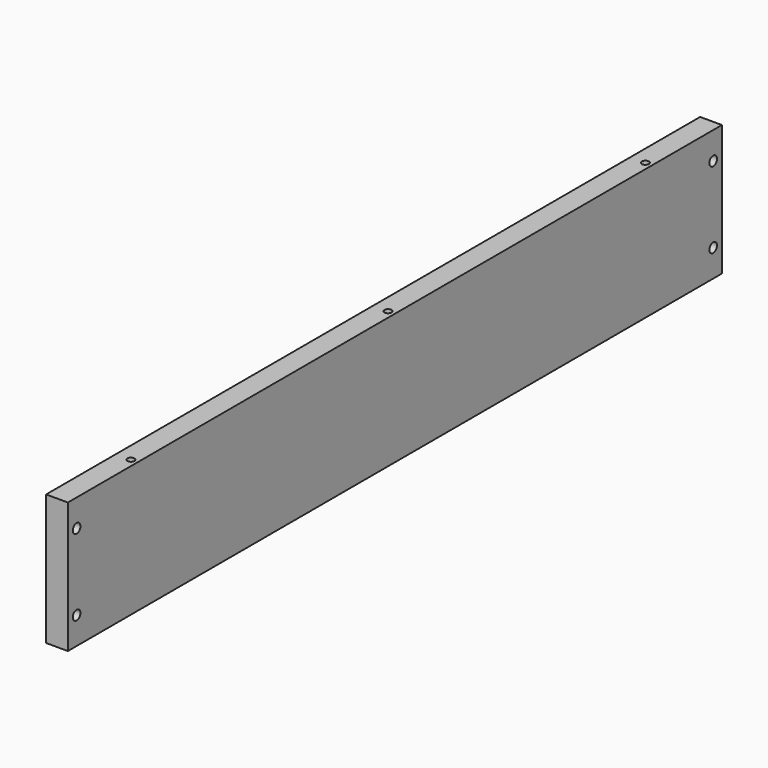
from build123d import *

# Parameters (mm, degrees)
F0_W           = 8
F0_H           = 48
F1_DEPTH       = 150
F4_D           = 2.6
F4_DEPTH       = 15
F4_TIP         = 0.7811188047
F4_ON_F2_D     = 2.6
F4_ON_F2_DEPTH = 15
F4_ON_F2_TIP   = 0.7811188047
F6_D           = 3.5
F6_CBORE_D     = 6
F6_CBORE_DEPTH = 3.5


with BuildPart() as f1:
    # F0 (on Front) → F1 (new body, symmetric)
    with BuildSketch(Plane.XZ):
        Rectangle(F0_W, F0_H)
    extrude(amount=F1_DEPTH, both=True)

    # F4
    with Locations(Plane(origin=(0, 0, -24), x_dir=(1, 0, 0), z_dir=(0, 0, -1))):
        with Locations((1.5, -118), (1.5, 0), (1.5, 118)):
            Hole(F4_D / 2, depth=F4_DEPTH)
            with Locations((0, 0, -(F4_DEPTH + F4_TIP / 2))):  # 118° drill point
                Cone(0, F4_D / 2, F4_TIP, mode=Mode.SUBTRACT)

    # F4 on F2
    with Locations(Plane.XY.offset(24)):
        with Locations((1.5, -118), (1.5, 0), (1.5, 118)):
            Hole(F4_ON_F2_D / 2, depth=F4_ON_F2_DEPTH)
            with Locations((0, 0, -(F4_ON_F2_DEPTH + F4_ON_F2_TIP / 2))):  # 118° drill point
                Cone(0, F4_ON_F2_D / 2, F4_ON_F2_TIP, mode=Mode.SUBTRACT)

    # F6 (through all)
    with Locations(Plane(origin=(-4, 0, 0), x_dir=(0, -1, 0), z_dir=(-1, 0, 0))):
        with Locations((146, 14), (146, -14), (-146, -14), (-146, 14)):
            CounterBoreHole(F6_D / 2, F6_CBORE_D / 2, F6_CBORE_DEPTH)


solid = f1.part
